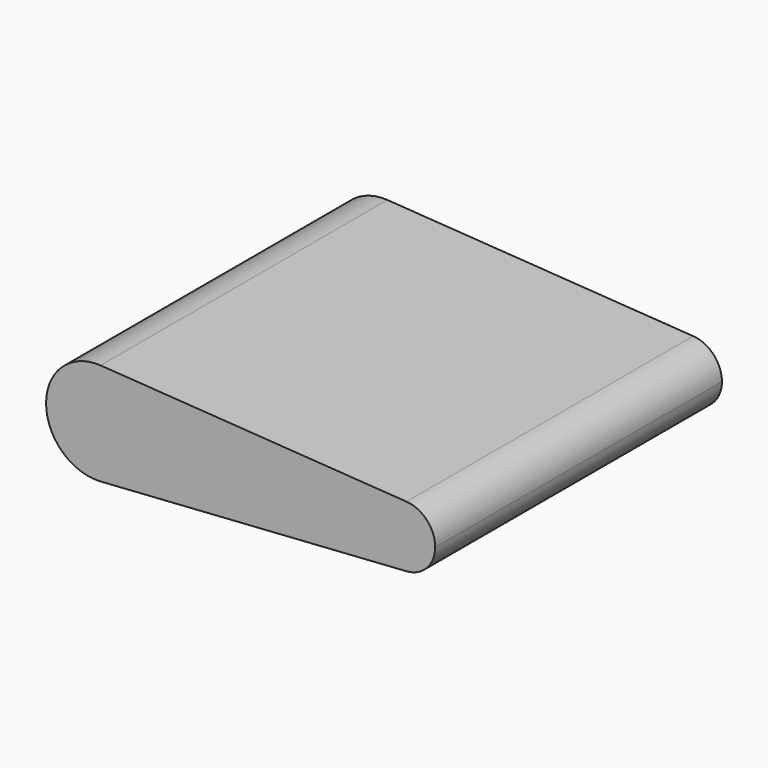
from build123d import *

# Parameters (mm, degrees)
F1_DEPTH = 35


with BuildPart() as f1:
    # F0 (on Front) → F1 (new body)
    with BuildSketch(Plane.XZ):
        with BuildLine():
            Line((6.706351, 0), (3.206351, 0))
            ThreePointArc((3.206351, 0), (4.315396, -2.556039), (6.939684, -3.492214))
            Line((6.939684, -3.492214), (29.339684, -1.995551))
            ThreePointArc((29.339684, -1.995551), (30.666944, -1.36626), (31.206351, 0))
            Line((31.206351, 0), (29.206351, 0))
            Line((29.206351, 0), (6.706351, 0))
        make_face()
        with BuildLine():
            ThreePointArc((6.939684, 3.492214), (4.315396, 2.556039), (3.206351, 0))
            Line((3.206351, 0), (6.706351, 0))
            Line((6.706351, 0), (29.206351, 0))
            Line((29.206351, 0), (31.206351, 0))
            ThreePointArc((31.206351, 0), (30.666944, 1.36626), (29.339684, 1.995551))
            Line((29.339684, 1.995551), (6.939684, 3.492214))
        make_face()
        with BuildLine():
            Line((-0.793649, 0), (-5.793649, 0))
            ThreePointArc((-5.793649, 0), (-4.209299, -3.651484), (-0.460316, -4.988877))
            Line((-0.460316, -4.988877), (29.406351, -2.993326))
            ThreePointArc((29.406351, -2.993326), (31.397241, -2.04939), (32.206351, 0))
            Line((32.206351, 0), (31.206351, 0))
            ThreePointArc((31.206351, 0), (30.666944, -1.36626), (29.339684, -1.995551))
            Line((29.339684, -1.995551), (6.939684, -3.492214))
            ThreePointArc((6.939684, -3.492214), (4.315396, -2.556039), (3.206351, 0))
            Line((3.206351, 0), (-0.793649, 0))
        make_face()
        with BuildLine():
            ThreePointArc((-0.460316, 4.988877), (-4.209299, 3.651484), (-5.793649, 0))
            Line((-5.793649, 0), (-0.793649, 0))
            Line((-0.793649, 0), (3.206351, 0))
            ThreePointArc((3.206351, 0), (4.315396, 2.556039), (6.939684, 3.492214))
            Line((6.939684, 3.492214), (29.339684, 1.995551))
            ThreePointArc((29.339684, 1.995551), (30.666944, 1.36626), (31.206351, 0))
            Line((31.206351, 0), (32.206351, 0))
            ThreePointArc((32.206351, 0), (31.397241, 2.04939), (29.406351, 2.993326))
            Line((29.406351, 2.993326), (-0.460316, 4.988877))
        make_face()
    extrude(amount=-F1_DEPTH)


solid = f1.part
